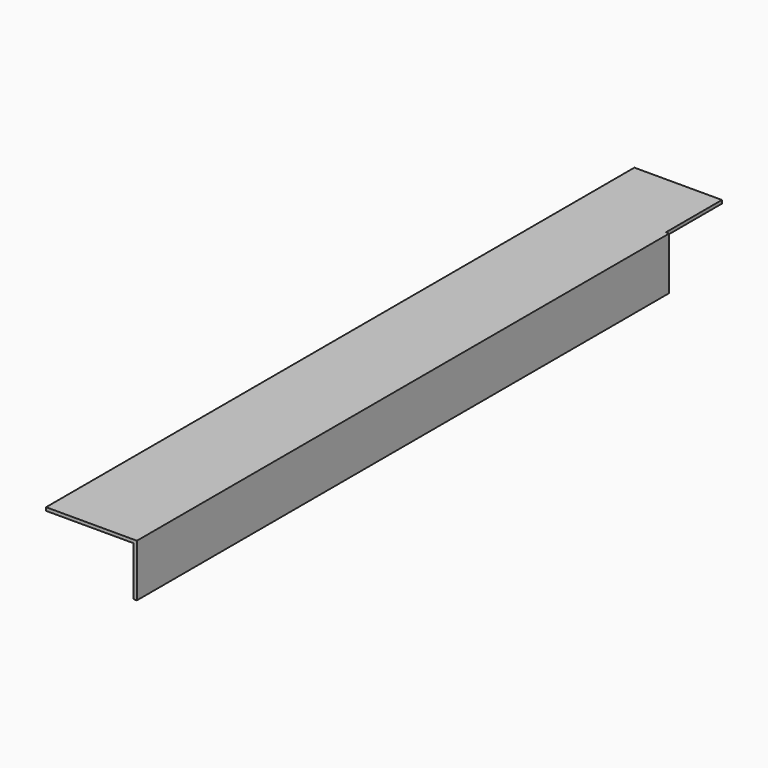
from build123d import *

# Parameters (mm, degrees)
F1_DEPTH = 4.7625
F2_W     = 965.2
F2_H     = 76.2
F3_DEPTH = 4.7625


with BuildPart() as f1:
    # F0 (on Top) → F1 (new body)
    with BuildSketch(Plane.XY):
        Polygon((63.5, -381), (63.5, 533.4), (-63.5, 533.4), (-63.5, -533.4), (63.5, -533.4), align=None)
    extrude(amount=F1_DEPTH)

    # F2 (on face) → F3 (join)
    with BuildSketch(Plane.YZ.offset(63.5)):
        with Locations((-50.8, -33.3375)):
            Rectangle(F2_W, F2_H)
    extrude(amount=F3_DEPTH)


solid = f1.part
